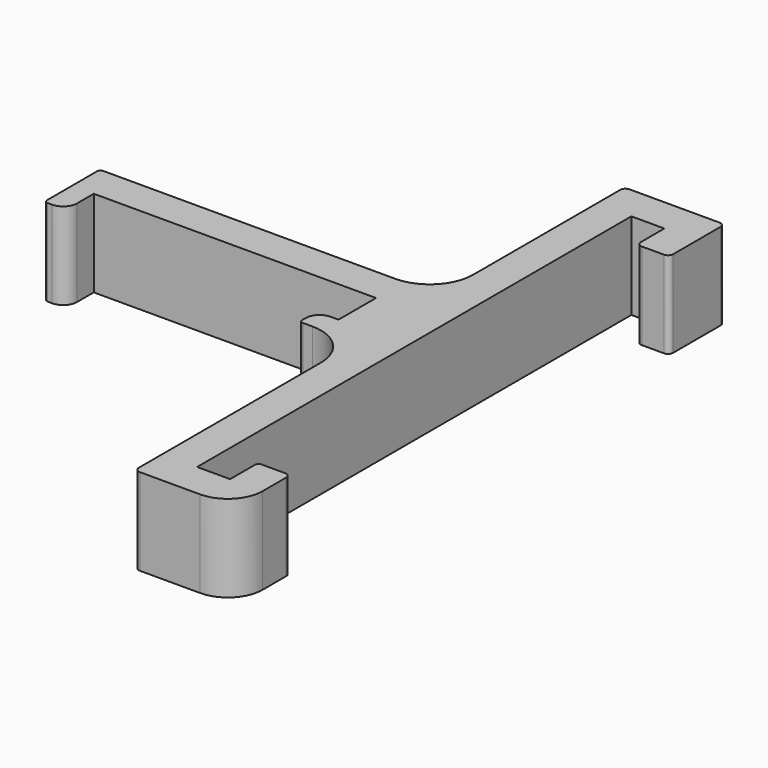
from build123d import *

# Parameters (mm, degrees)
F1_DEPTH = 12.7
F4_DEPTH = 1.5874999808


with BuildPart() as f1:
    # F0 (on Top) → F1 (new body)
    with BuildSketch(Plane.XY):
        with BuildLine():
            Line((0, 0), (41.275, 0))
            Line((41.275, 0), (41.275, -6.858))
            Line((41.275, -6.858), (40.132, -6.858))
            ThreePointArc((40.132, -6.858), (38.6951590206, -7.4531590206), (38.1, -8.89))
            Line((38.1, -8.89), (38.1, -9.525))
            ThreePointArc((38.1, -9.525), (38.2487897552, -9.8842102448), (38.608, -10.033))
            Line((38.608, -10.033), (39.9921709569, -10.033))
            ThreePointArc((39.9921709569, -10.033), (44.4822990174, -11.8928719395), (46.3421709569, -16.383))
            Line((46.3421709569, -16.383), (46.3421709569, -49.7078))
            ThreePointArc((46.3421709569, -49.7078), (46.5653555896, -50.2466153673), (47.1041709569, -50.4698))
            Line((47.1041709569, -50.4698), (55.9179709569, -50.4698))
            ThreePointArc((55.9179709569, -50.4698), (59.5100734053, -48.9819024484), (60.9979709569, -45.3898))
            Line((60.9979709569, -45.3898), (60.9979709569, -41.0718))
            ThreePointArc((60.9979709569, -41.0718), (60.7747863242, -40.5329846327), (60.2359709569, -40.3098))
            Line((60.2359709569, -40.3098), (56.7561709569, -40.3098))
            ThreePointArc((56.7561709569, -40.3098), (56.3969607121, -40.4585897552), (56.2481709569, -40.8178))
            Line((56.2481709569, -40.8178), (56.2481709569, -45.3898))
            Line((56.2481709569, -45.3898), (51.4221709569, -45.3898))
            Line((51.4221709569, -45.3898), (51.4221709569, 33.9852))
            Line((51.4221709569, 33.9852), (56.2481709569, 33.9852))
            Line((56.2481709569, 33.9852), (56.2481709569, 29.6672))
            ThreePointArc((56.2481709569, 29.6672), (56.4713555896, 29.1283846327), (57.0101709569, 28.9052))
            Line((57.0101709569, 28.9052), (60.2359709569, 28.9052))
            ThreePointArc((60.2359709569, 28.9052), (60.7747863242, 29.1283846327), (60.9979709569, 29.6672))
            Line((60.9979709569, 29.6672), (60.9979709569, 38.3032))
            ThreePointArc((60.9979709569, 38.3032), (60.7747863242, 38.8420153673), (60.2359709569, 39.0652))
            Line((60.2359709569, 39.0652), (47.1041709569, 39.0652))
            ThreePointArc((47.1041709569, 39.0652), (46.5653555896, 38.8420153673), (46.3421709569, 38.3032))
            Line((46.3421709569, 38.3032), (46.3421709569, 11.43))
            ThreePointArc((46.3421709569, 11.43), (44.4822990174, 6.9398719395), (39.9921709569, 5.08))
            Line((39.9921709569, 5.08), (-2.667, 5.08))
            ThreePointArc((-2.667, 5.08), (-3.0262102448, 4.9312102448), (-3.175, 4.572))
            Line((-3.175, 4.572), (-3.175, -4.572))
            ThreePointArc((-3.175, -4.572), (-3.0262102448, -4.9312102448), (-2.667, -5.08))
            Line((-2.667, -5.08), (-2.032, -5.08))
            ThreePointArc((-2.032, -5.08), (-0.5951590206, -4.4848409794), (0, -3.048))
            Line((0, -3.048), (0, 0))
        make_face()
    extrude(amount=F1_DEPTH)

    # F3 (on offset) → F4 (join)
    with BuildSketch(Plane(origin=(0, 5.08, 0), x_dir=(-1, 0, 0), z_dir=(0, 1, 0))):
        Polygon((-10.6797069311, 5.5562499233), (-10.5811413378, 7.1437499233), (-46.3421708802, 7.1437499233), (-46.3421708802, 5.5562499233), align=None)
    extrude(amount=F4_DEPTH)


solid = f1.part
